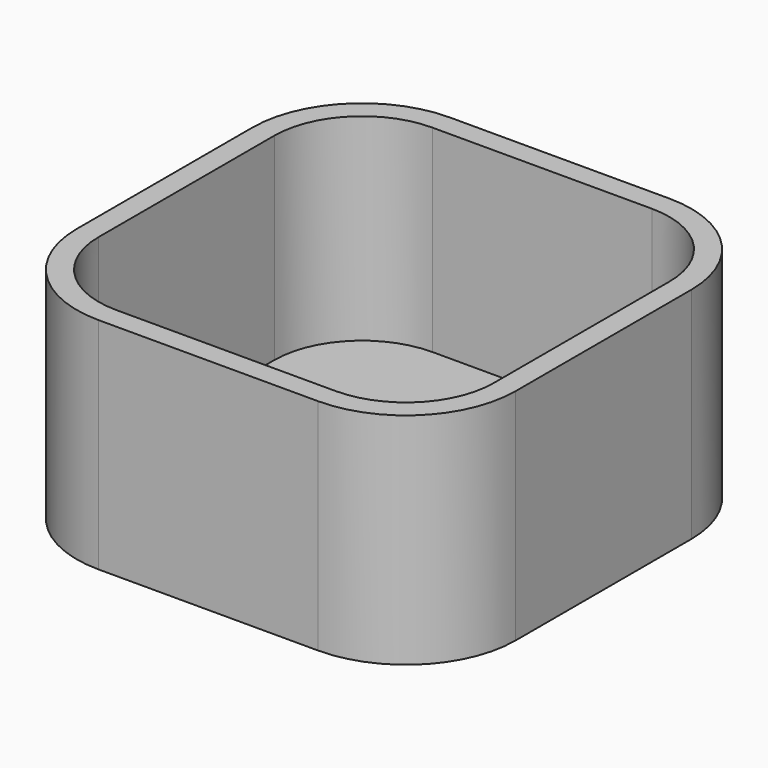
from build123d import *

# Parameters (mm, degrees)
F0_W     = 40
F0_H     = 40
F1_DEPTH = 20
F2_R     = 10
F3_T     = -2


with BuildPart() as f1:
    # F0 (on Top) → F1 (new body)
    with BuildSketch(Plane.XY):
        Rectangle(F0_W, F0_H)
    extrude(amount=-F1_DEPTH)

    # F2
    f2_edges = [f1.edges().sort_by_distance(p)[0] for p in [
        (-20, -20, -10),
        (20, -20, -10),
        (20, 20, -10),
        (-20, 20, -10),
    ]]
    fillet(f2_edges, radius=F2_R)

    # F3
    f3_openings = [f1.faces().sort_by_distance(p)[0] for p in [
        (0, 0, 0),
    ]]
    offset(amount=F3_T, openings=f3_openings)


solid = f1.part
